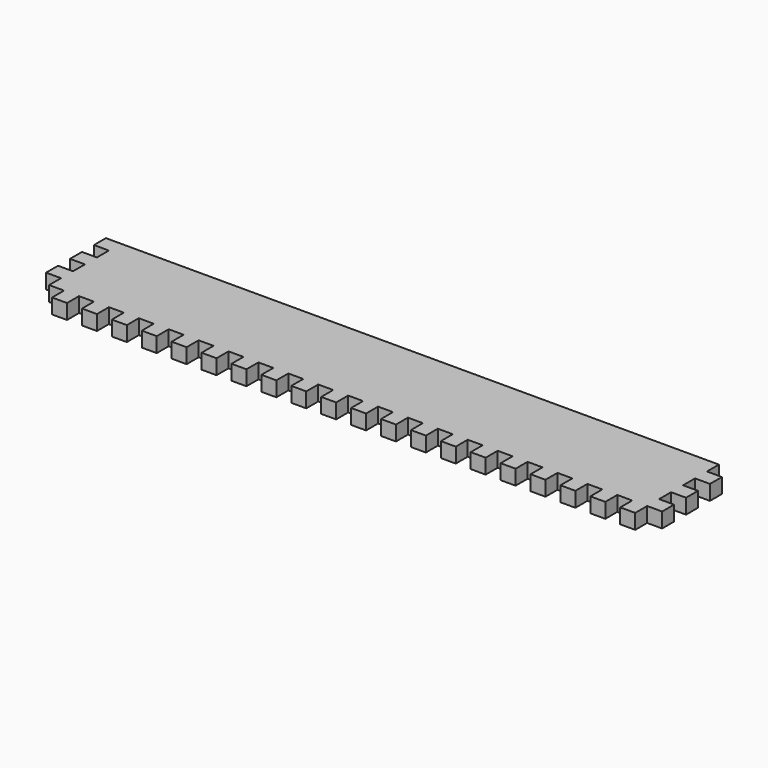
from build123d import *

# Parameters (mm, degrees)
F0_W     = 533.4
F0_H     = 88.9
F1_DEPTH = 12.7
F2_W     = 12.7
F2_H     = 12.7
F3_DEPTH = 25.4
F4_W     = 12.7
F4_H     = 12.7
F4_H_2   = 25.4
F5_DEPTH = 25.4
F6_W     = 12.7
F6_H     = 12.7
F7_DEPTH = 25.4


with BuildPart() as f1:
    # F0 (on Top) → F1 (new body)
    with BuildSketch(Plane.XY):
        with Locations((266.7, 44.45)):
            Rectangle(F0_W, F0_H)
    extrude(amount=F1_DEPTH)

    # F2 (on face) → F3 (cut)
    with BuildSketch(Plane.XY.offset(12.7)):
        with Locations((527.05, 6.35)):
            Rectangle(F2_W, F2_H)
        with Locations((527.05, 31.75)):
            Rectangle(F2_W, F2_H)
        with Locations((527.05, 57.15)):
            Rectangle(F2_W, F2_H)
        with Locations((527.05, 82.55)):
            Rectangle(F2_W, F2_H)
    extrude(amount=-F3_DEPTH, mode=Mode.SUBTRACT)

    # F4 (on face) → F5 (cut)
    with BuildSketch(Plane.XY.offset(12.7)):
        with Locations((6.35, 44.45)):
            Rectangle(F4_W, F4_H)
        with Locations((6.35, 69.85)):
            Rectangle(F4_W, F4_H)
        with Locations((6.35, 12.7)):
            Rectangle(F4_W, F4_H_2)
    extrude(amount=-F5_DEPTH, mode=Mode.SUBTRACT)

    # F6 (on face) → F7 (cut)
    with BuildSketch(Plane.XY.offset(12.7)):
        with Locations((19.05, 6.35)):
            Rectangle(F6_W, F6_H)
        with Locations((44.45, 6.35)):
            Rectangle(F6_W, F6_H)
        with Locations((69.85, 6.35)):
            Rectangle(F6_W, F6_H)
        with Locations((95.25, 6.35)):
            Rectangle(F6_W, F6_H)
        with Locations((120.65, 6.35)):
            Rectangle(F6_W, F6_H)
        with Locations((146.05, 6.35)):
            Rectangle(F6_W, F6_H)
        with Locations((171.45, 6.35)):
            Rectangle(F6_W, F6_H)
        with Locations((196.85, 6.35)):
            Rectangle(F6_W, F6_H)
        with Locations((222.25, 6.35)):
            Rectangle(F6_W, F6_H)
        with Locations((247.65, 6.35)):
            Rectangle(F6_W, F6_H)
        with Locations((273.05, 6.35)):
            Rectangle(F6_W, F6_H)
        with Locations((298.45, 6.35)):
            Rectangle(F6_W, F6_H)
        with Locations((323.85, 6.35)):
            Rectangle(F6_W, F6_H)
        with Locations((349.25, 6.35)):
            Rectangle(F6_W, F6_H)
        with Locations((374.65, 6.35)):
            Rectangle(F6_W, F6_H)
        with Locations((400.05, 6.35)):
            Rectangle(F6_W, F6_H)
        with Locations((425.45, 6.35)):
            Rectangle(F6_W, F6_H)
        with Locations((450.85, 6.35)):
            Rectangle(F6_W, F6_H)
        with Locations((476.25, 6.35)):
            Rectangle(F6_W, F6_H)
        with Locations((501.65, 6.35)):
            Rectangle(F6_W, F6_H)
    extrude(amount=-F7_DEPTH, mode=Mode.SUBTRACT)


solid = f1.part
